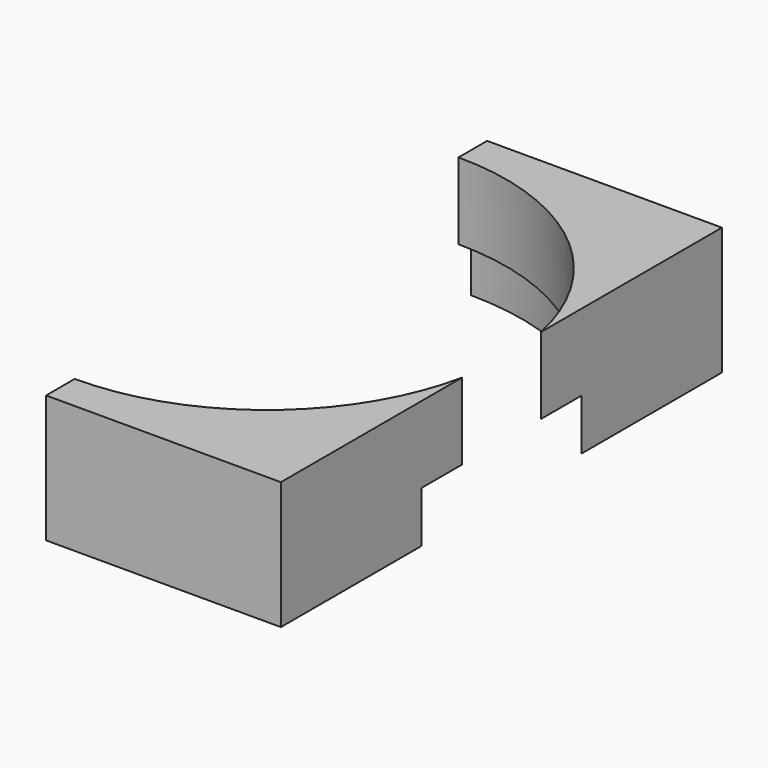
from build123d import *

# Parameters (mm, degrees)
TUBE110_R          = 50
TUBE110_R_2        = 40
TUBE110_DEPTH      = 10
CYLINDER1173_R     = 47
CYLINDER1173_DEPTH = 25
BOX480_W           = 46
BOX480_H           = 108
BOX480_DEPTH       = 25


with BuildPart() as tube110:
    # Tube110 → Tube110 (new body)
    with BuildSketch(Plane.XY.offset(20)):
        Circle(TUBE110_R)
        Circle(TUBE110_R_2, mode=Mode.SUBTRACT)
    extrude(amount=TUBE110_DEPTH)


with BuildPart() as obj1:
    # Cylinder1173 → Cylinder1173 (new body)
    with BuildSketch(Plane.XY.offset(20)):
        Circle(CYLINDER1173_R)
    extrude(amount=CYLINDER1173_DEPTH)


with BuildPart() as cut436:
    # Box480 → Box480 (new body)
    with BuildSketch(Plane(origin=(0, -54, 20), x_dir=(1, 0, 0), z_dir=(0, 0, 1))):
        with Locations((23, 54)):
            Rectangle(BOX480_W, BOX480_H)
    extrude(amount=BOX480_DEPTH)

    # Cut435: cut obj1
    add(obj1.part, mode=Mode.SUBTRACT)

    # Cut436: cut Tube110
    add(tube110.part, mode=Mode.SUBTRACT)


solid = cut436.part
